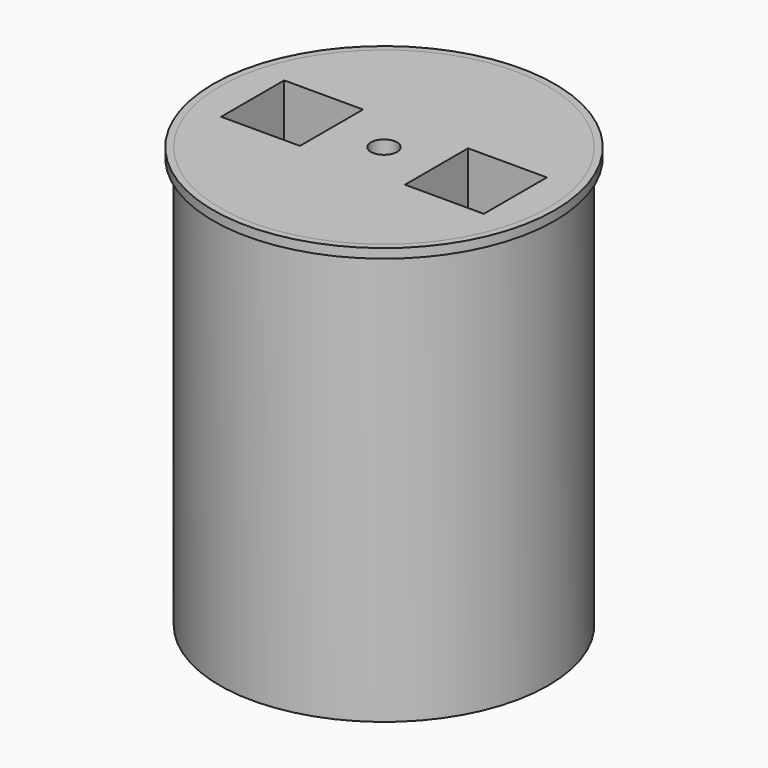
from build123d import *

# Parameters (mm, degrees)
F0_R     = 125
F0_R_2   = 9.94633835
F1_DEPTH = 320
F2_R     = 130
F2_R_2   = 125
F3_DEPTH = 7.1
F4_R     = 0.9227178023
F5_DEPTH = 25
F6_W     = 60
F6_H     = 60
F7_DEPTH = 90


with BuildPart() as f1:
    # F0 (on Top) → F1 (new body)
    with BuildSketch(Plane.XY):
        Circle(F0_R)
        Circle(F0_R_2, mode=Mode.SUBTRACT)
    extrude(amount=F1_DEPTH)

    # F4 (on face) → F5 (cut)
    with BuildSketch(Plane.XY.offset(320)):
        Circle(F4_R)
    extrude(amount=-F5_DEPTH, mode=Mode.SUBTRACT)

    # F6 (on face) → F7 (cut)
    with BuildSketch(Plane.XY.offset(320)):
        with Locations((-69.94633835, 0)):
            Rectangle(F6_W, F6_H)
        with Locations((69.94633835, 0)):
            Rectangle(F6_W, F6_H)
    extrude(amount=-F7_DEPTH, mode=Mode.SUBTRACT)


with BuildPart() as f3:
    # F2 (on face) → F3 (new body)
    with BuildSketch(Plane.XY.offset(320)):
        Circle(F2_R)
        Circle(F2_R_2, mode=Mode.SUBTRACT)
    extrude(amount=-F3_DEPTH)


solid = Compound([f1.part, f3.part])
